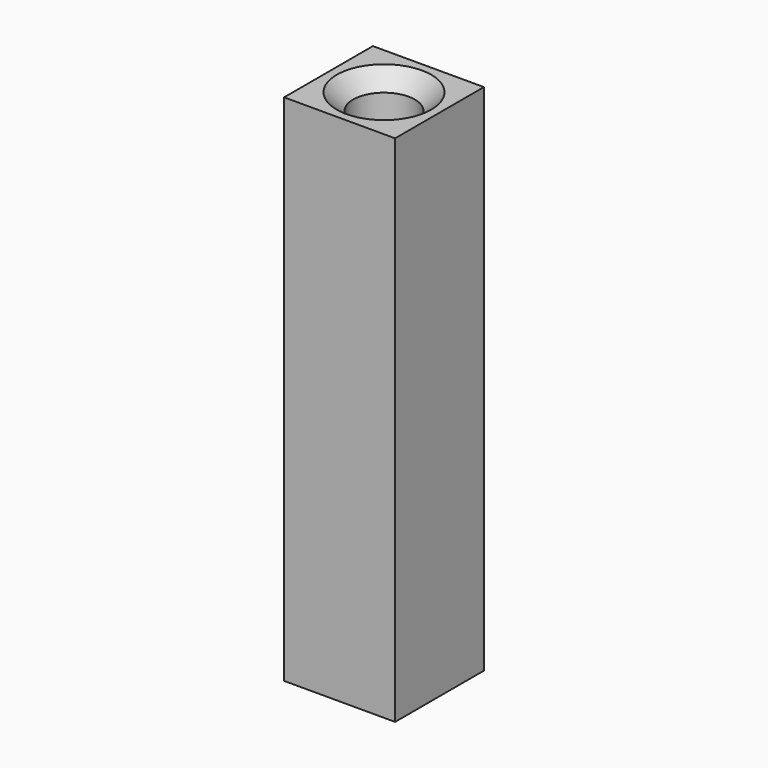
from build123d import *

# Parameters (mm, degrees)
F0_W     = 5.4
F0_H     = 5.4
F0_R     = 1.5
F1_DEPTH = 25
F2_SIZE  = 0.8


with BuildPart() as f1:
    # F0 (on Top) → F1 (new body)
    with BuildSketch(Plane.XY):
        Rectangle(F0_W, F0_H)
        Circle(F0_R, mode=Mode.SUBTRACT)
    extrude(amount=F1_DEPTH)

    # F2
    f2_edges = [f1.edges().sort_by_distance(p)[0] for p in [
        (-1.5, 0, 25),
        (-1.5, 0, 0),
    ]]
    chamfer(f2_edges, length=F2_SIZE)


solid = f1.part
